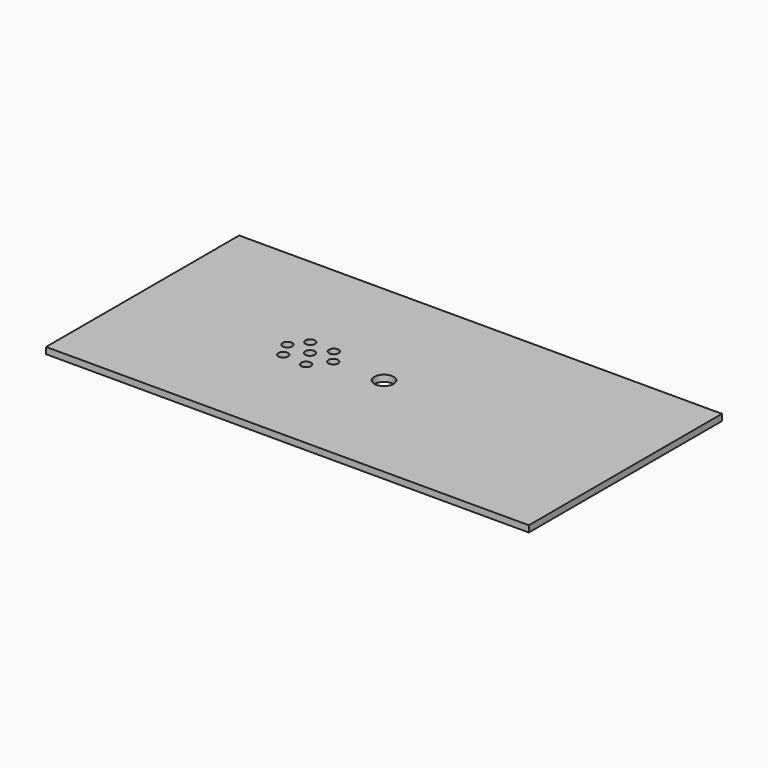
from build123d import *

# Parameters (mm, degrees)
F0_W     = 150
F0_H     = 75
F0_R     = 1.5
F0_R_2   = 3
F1_DEPTH = 2


with BuildPart() as f1:
    # F0 (on Top) → F1 (new body)
    with BuildSketch(Plane.XY):
        Rectangle(F0_W, F0_H)
        with Locations((-27.500002, -4.75)):
            Circle(F0_R, mode=Mode.SUBTRACT)
        with Locations((-20.000001, -5.25)):
            Circle(F0_R, mode=Mode.SUBTRACT)
        with Locations((-30.000001, 0)):
            Circle(F0_R, mode=Mode.SUBTRACT)
        with Locations((-23, 0)):
            Circle(F0_R, mode=Mode.SUBTRACT)
        with Locations((-26.500002, 4.5)):
            Circle(F0_R, mode=Mode.SUBTRACT)
        with Locations((-19.000001, 4.25)):
            Circle(F0_R, mode=Mode.SUBTRACT)
        with Locations((-15.75, 0)):
            Circle(F0_R, mode=Mode.SUBTRACT)
        Circle(F0_R_2, mode=Mode.SUBTRACT)
    extrude(amount=F1_DEPTH)


solid = f1.part
